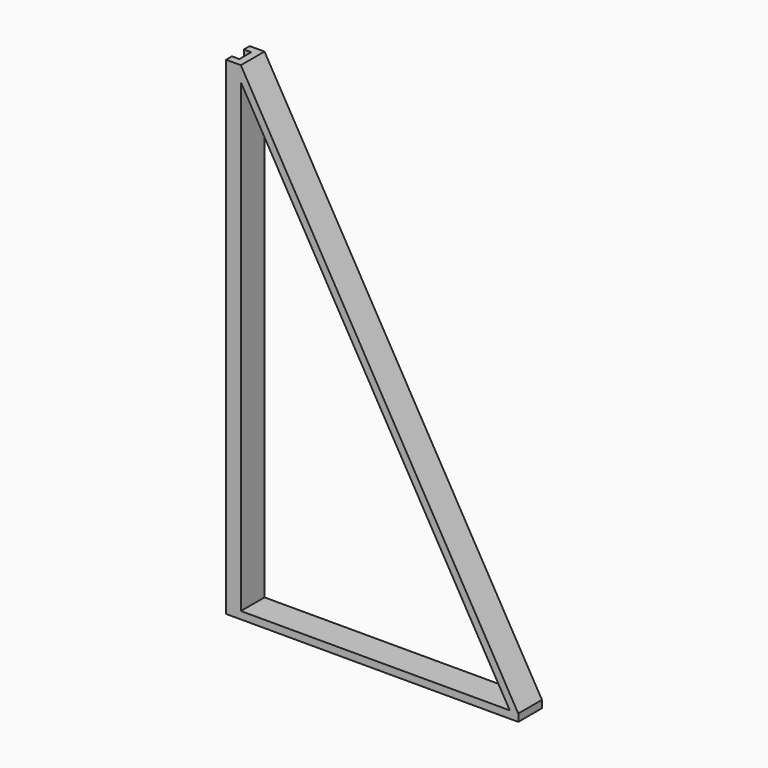
from build123d import *

# Parameters (mm, degrees)
F1_DEPTH = 80
F3_START = -20
F2_W     = 20
F2_H     = 40
F3_DEPTH = 1299.0391056767


with BuildPart() as f1:
    # F0 (on Front) → F1 (new body)
    with BuildSketch(Plane.XZ):
        Polygon((298.4476520539, 1601.7856981162), (258.4476520539, 1601.7856981162), (258.4476520539, 302.7475924396), (298.4476520539, 302.7475924396), (298.4476520539, 1561.7856981162), (1025.3536412863, 302.7475924396), (1048.4476520539, 302.7475924396), align=None)
        Polygon((298.4476520539, 302.7475924396), (258.4476520539, 302.7475924396), (258.4476520539, 282.7475924396), (1048.4476520539, 282.7475924396), (1048.4476520539, 302.7475924396), (1025.3536412863, 302.7475924396), align=None)
    extrude(amount=F1_DEPTH)

    # F2 (on face) → F3 (cut)
    with BuildSketch(Plane(origin=(0, 0, 282.7475924396), x_dir=(1, 0, 0), z_dir=(0, 0, -1)).offset(F3_START)):
        with Locations((268.4476520539, 40)):
            Rectangle(F2_W, F2_H)
    extrude(amount=-F3_DEPTH, mode=Mode.SUBTRACT)


solid = f1.part
